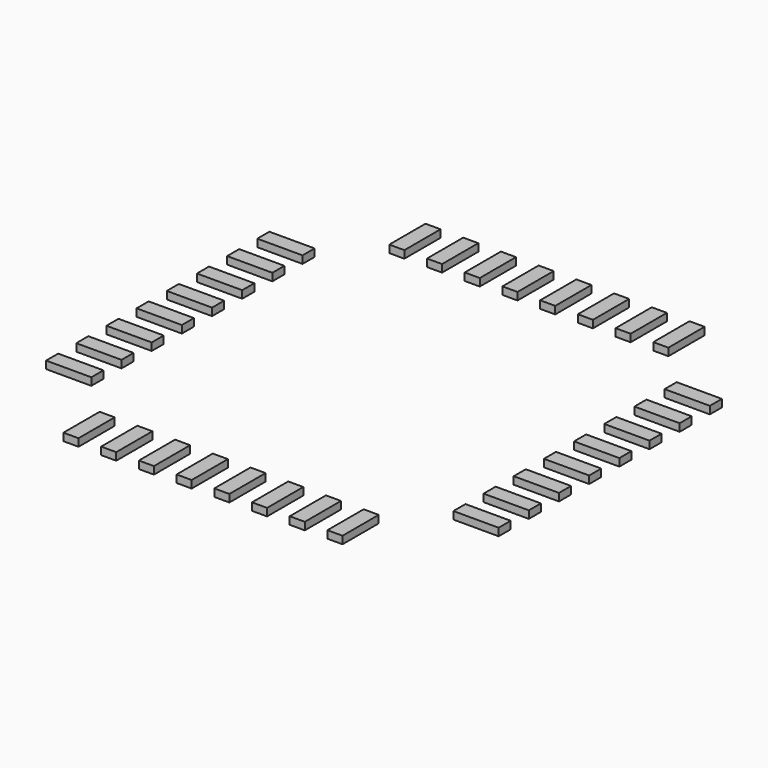
from build123d import *

# Parameters (mm, degrees)
BOX043_W                = 0.2
BOX043_H                = 0.6
BOX043_DEPTH            = 0.1
ARRAY014_X_COUNT        = 8
ARRAY014_X_PITCH        = 0.5
ARRAY014_Y_COUNT        = 2
ARRAY014_Y_PITCH        = 5.4
LINK002_PLACEMENT_ANGLE = 90


with BuildPart() as array014:
    # Box043 → Box043 (new body)
    with BuildSketch(Plane(origin=(-1.85, 2.4, 0), x_dir=(1, 0, 0), z_dir=(0, 0, 1))):
        with Locations((0.1, 0.3)):
            Rectangle(BOX043_W, BOX043_H)
    extrude(amount=BOX043_DEPTH)

    # Array014 X: Array014 ×8


with BuildPart() as array014_1:
    add(array014.part)
    with Locations(*[(i * ARRAY014_X_PITCH, 0, 0) for i in range(1, ARRAY014_X_COUNT)]):
        add(array014.part)

    # Array014 Y: Array014 ×2


with BuildPart() as array014_2:
    add(array014_1.part)
    with Locations(*[(0, -i * ARRAY014_Y_PITCH, 0) for i in range(1, ARRAY014_Y_COUNT)]):
        add(array014_1.part)


with BuildPart() as array012:
    # Link002 base: copy of Array014
    add(array014_2.part)


with BuildPart() as array012_1:
    # Link002 placement: moved
    add(array012.part.rotate(Axis((0, 0, 0), (0, 0, 1)), LINK002_PLACEMENT_ANGLE))


with BuildPart() as pins:
    # Fusion027 base: copy of Array014
    add(array014_2.part)

    # Fusion027: union Array012
    add(array012_1.part)


solid = pins.part
